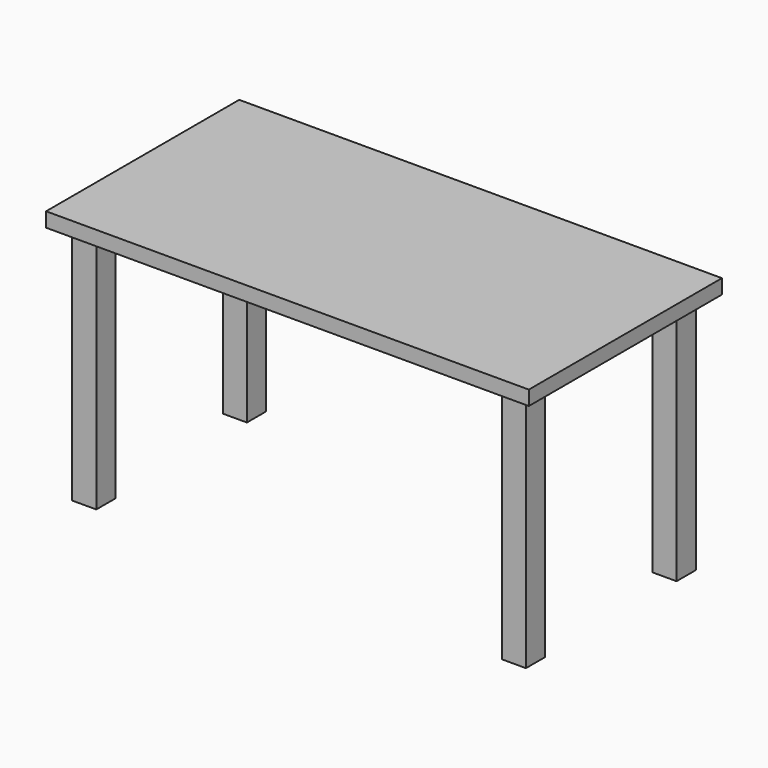
from build123d import *

# Parameters (mm, degrees)
SKETCH_W           = 100
SKETCH_H           = 50
PAD_DEPTH          = 3
SKETCH001_W        = 5
SKETCH001_H        = 5
PAD001_DEPTH       = 50
POLARPATTERN_COUNT = 2


with BuildPart() as part:
    # Sketch → Pad (new body)
    with BuildSketch(Plane.XY):
        Rectangle(SKETCH_W, SKETCH_H)
    extrude(amount=PAD_DEPTH)

    # Sketch001 (on Face5 of Pad) → Pad001 (join)
    with BuildSketch(Plane(origin=(0, 0, 0), x_dir=(1, 0, 0), z_dir=(0, 0, -1))):
        with Locations((44.5, 19.5)):
            Rectangle(SKETCH001_W, SKETCH001_H)
    pad001 = extrude(amount=PAD001_DEPTH)

    # Mirrored: Pad001 across Sketch001 V_Axis
    add(pad001.mirror(Plane(origin=(0, 0, 0), x_dir=(0, 0, -1), z_dir=(1, 0, 0))))

    # Mirrored001: Pad001 across Sketch001 H_Axis
    add(pad001.mirror(Plane(origin=(0, 0, 0), x_dir=(0, 0, -1), z_dir=(0, -1, 0))))

    # PolarPattern: Pad001 ×2 about axis
    polarpattern_axis = Axis((0, 0, 0), (0, 0, -1))
    for i in range(1, POLARPATTERN_COUNT):
        add(pad001.rotate(polarpattern_axis, i * 360 / POLARPATTERN_COUNT))


solid = part.part
